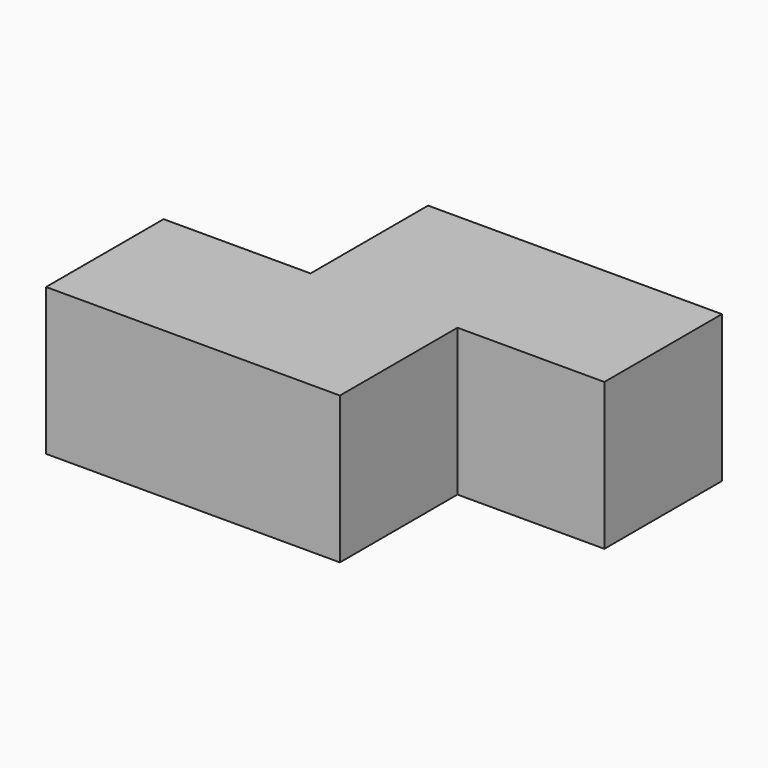
from build123d import *

# Parameters (mm, degrees)
F0_W     = 38.1
F0_H     = 19.05
F1_DEPTH = 19.05
F3_DEPTH = 19.05


with BuildPart() as f1:
    # F0 (on Front) → F1 (new body)
    with BuildSketch(Plane.XZ):
        with Locations((1.981201, -0.381)):
            Rectangle(F0_W, F0_H)
    extrude(amount=F1_DEPTH)

    # F2 (on face) → F3 (join)
    with BuildSketch(Plane.XY.offset(9.144)):
        Polygon((1.981201, 19.05), (1.981201, 0), (21.031201, 0), (40.081201, 0), (40.081201, 19.05), align=None)
    extrude(amount=-F3_DEPTH)


solid = f1.part
